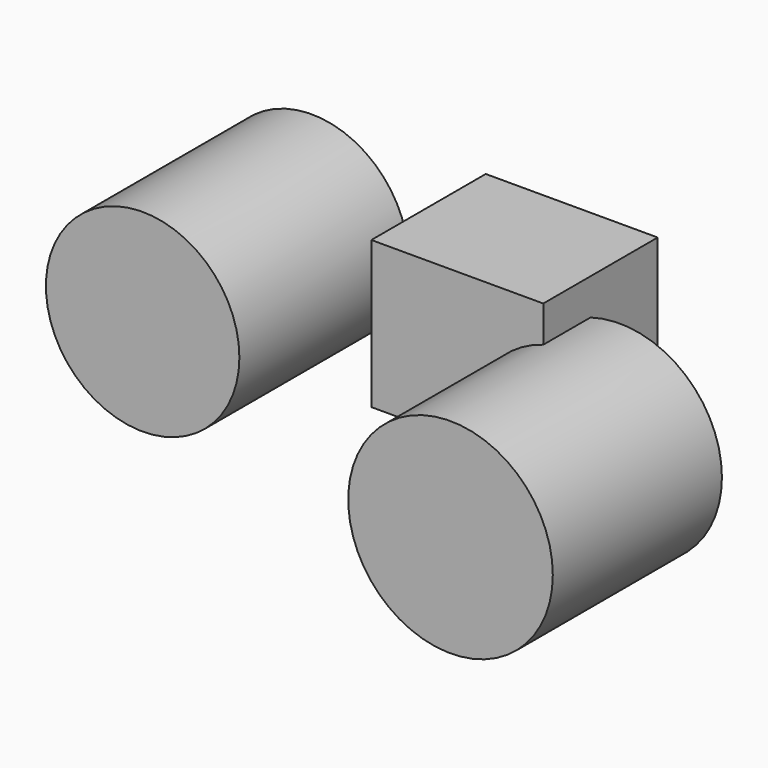
from build123d import *

# Parameters (mm, degrees)
F0_W     = 77.470977
F0_H     = 64.430956
F1_DEPTH = 66.294
F2_R     = 46.09269
F2_R_2   = 43.592468
F3_DEPTH = 95.25


with BuildPart() as f1:
    # F0 (on Top) → F1 (new body)
    with BuildSketch(Plane.XY):
        with Locations((-76.587786, 5.629277)):
            Rectangle(F0_W, F0_H)
    extrude(amount=F1_DEPTH)

    # F2 (on Front) → F3 (join)
    with BuildSketch(Plane.XZ):
        with Locations((-24.719715, 5.766556)):
            Circle(F2_R)
        with Locations((-163.447723, 46.135113)):
            Circle(F2_R_2)
    extrude(amount=F3_DEPTH)


solid = f1.part
